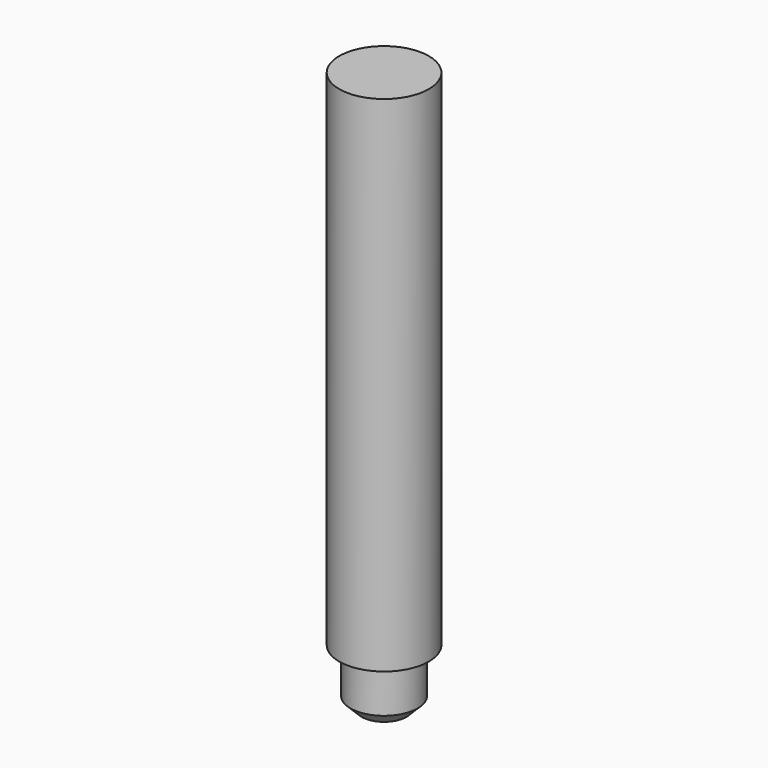
from build123d import *

# Parameters (mm, degrees)
F0_R          = 4
F0_R_2        = 3
F1_DEPTH      = 35
F1_DEPTH_BACK = 10
F2_DEPTH      = 40
F3_SIZE       = 1


with BuildPart() as f1:
    # F0 (on Top) → F1 (new body, two sides)
    with BuildSketch(Plane.XY) as f1_sk:
        Circle(F0_R)
        Circle(F0_R_2, mode=Mode.SUBTRACT)
        Circle(F0_R_2)
    extrude(amount=-F1_DEPTH)
    extrude(f1_sk.sketch, amount=F1_DEPTH_BACK)

    # F0 (on Top) → F2 (join)
    with BuildSketch(Plane.XY):
        Circle(F0_R_2)
    extrude(amount=-F2_DEPTH)

    # F3
    f3_edges = [f1.edges().sort_by_distance(p)[0] for p in [
        (-3, 0, -40),
    ]]
    chamfer(f3_edges, length=F3_SIZE)


solid = f1.part
